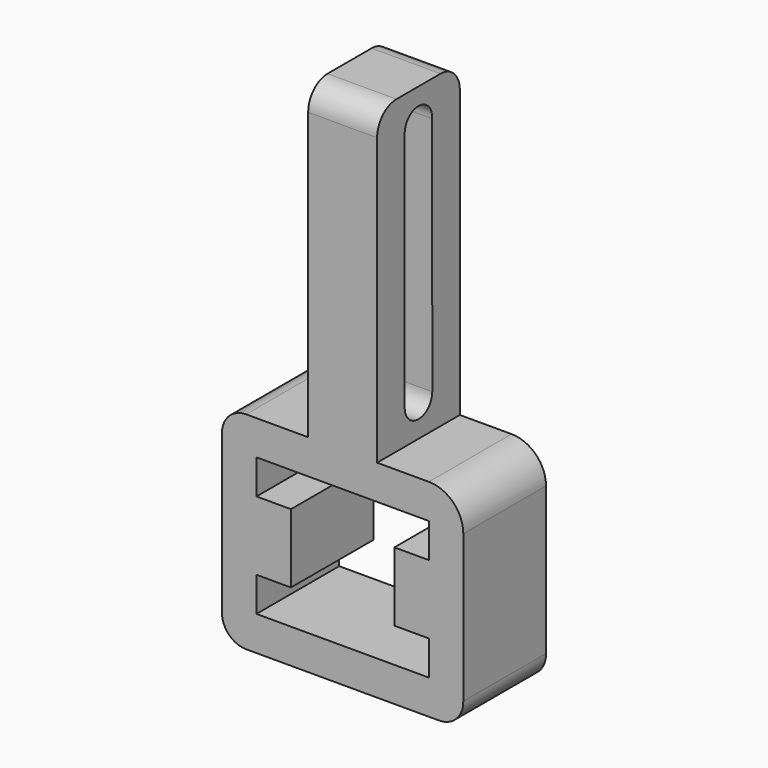
from build123d import *

# Parameters (mm, degrees)
F1_DEPTH = 300
F2_R     = 70
F4_DEPTH = 1454


with BuildPart() as f1:
    # F0 (on Front) → F1 (new body)
    with BuildSketch(Plane.XZ):
        with BuildLine():
            Line((-280, -300), (280.009727, -300))
            ThreePointArc((280.009727, -300), (330.254635, -278.73858), (349.977312, -227.869977))
            Line((349.977312, -227.869977), (350, 200))
            ThreePointArc((350, 200), (320.710678, 270.710678), (250, 300))
            Line((250, 300), (100, 300))
            Line((100, 300), (100, 1200))
            Line((100, 1200), (-100, 1200))
            Line((-100, 1200), (-100, 300))
            Line((-100, 300), (-280, 300))
            ThreePointArc((-280, 300), (-329.497475, 279.497475), (-350, 230))
            Line((-350, 230), (-350, -230))
            ThreePointArc((-350, -230), (-329.497475, -279.497475), (-280, -300))
        make_face()
        Polygon((-250, 100), (-250, 200), (250, 200), (250, 100), (150, 100), (150, -100), (250, -100), (249.994698, -200), (-250, -200), (-250, -100), (-150, -100), (-150, 100), align=None, mode=Mode.SUBTRACT)
    extrude(amount=F1_DEPTH)

    # F2
    f2_edges = [f1.edges().sort_by_distance(p)[0] for p in [
        (0, 0, 1200),
        (0, -300, 1200),
    ]]
    fillet(f2_edges, radius=F2_R)


with BuildPart() as f4:
    # F3 (on face) → F4 (new body)
    with BuildSketch(Plane.YZ.offset(100)):
        with BuildLine():
            Line((-100, 400.005119), (-100.071387, 1097.329122))
            ThreePointArc((-100.071387, 1097.329122), (-148.884053, 1149.987545), (-199.998063, 1099.559935))
            Line((-199.998063, 1099.559935), (-200, 400.000138))
            ThreePointArc((-200, 400.000138), (-149.99751, 350), (-100, 400.005119))
        make_face()
    extrude(amount=-F4_DEPTH)


with BuildPart() as f1_1:
    add(f1.part)

    # F5: cut F4
    add(f4.part, mode=Mode.SUBTRACT)


solid = f1_1.part
